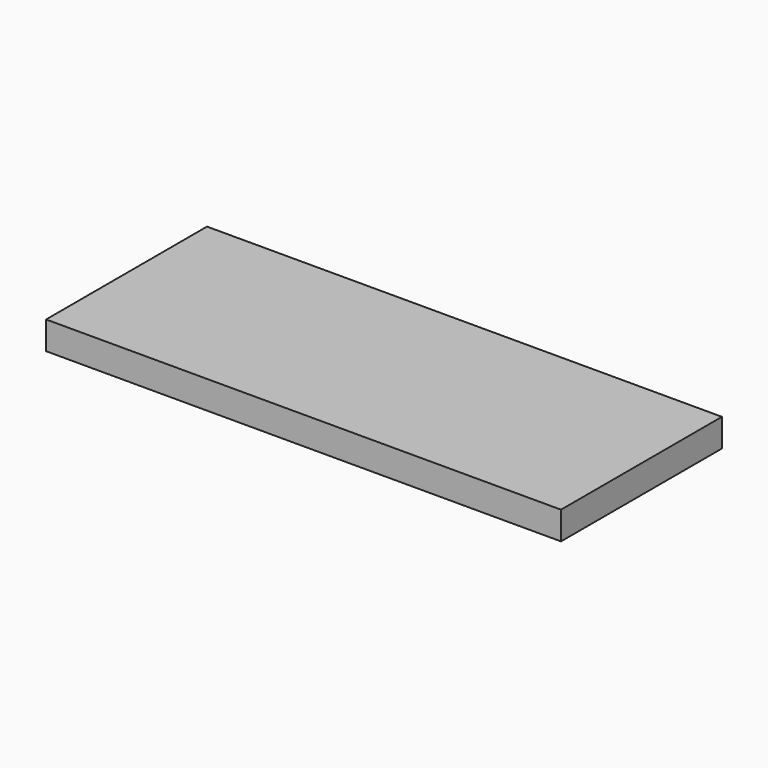
from build123d import *

# Parameters (mm, degrees)
F0_W     = 177.8
F0_H     = 9.652
F1_DEPTH = 25.4
F2_DEPTH = 69.453125


with BuildPart() as f1:
    # F0 (on Front) → F1 (new body)
    with BuildSketch(Plane.XZ):
        with Locations((0, 4.826)):
            Rectangle(F0_W, F0_H)
    extrude(amount=F1_DEPTH)

    # F0 (on Front) → F2 (join)
    with BuildSketch(Plane.XZ):
        with Locations((0, 4.826)):
            Rectangle(F0_W, F0_H)
    extrude(amount=F2_DEPTH)


solid = f1.part
